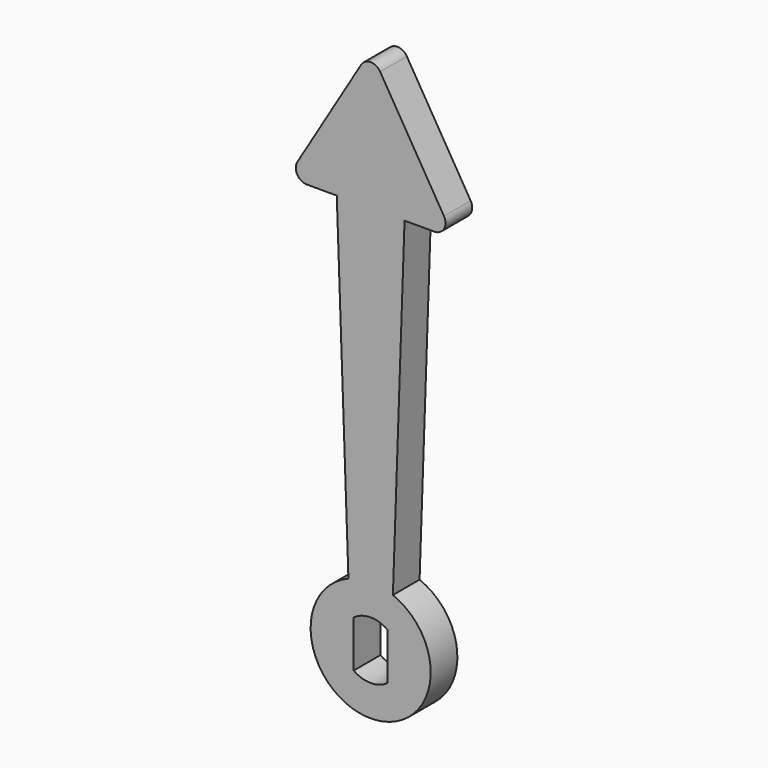
from build123d import *

# Parameters (mm, degrees)
F0_R     = 5.4
F1_DEPTH = 3
F3_DEPTH = 3
F5_DEPTH = 3
F6_R     = 1


with BuildPart() as f1:
    # F0 (on Front) → F1 (new body)
    with BuildSketch(Plane.XZ):
        Circle(F0_R)
        with BuildLine():
            ThreePointArc((1.525, 2.105796), (2.315707, 1.182159), (2.6, 0))
            ThreePointArc((2.6, 0), (2.315707, -1.182159), (1.525, -2.105796))
            ThreePointArc((1.525, -2.105796), (0, -2.6), (-1.525, -2.105796))
            ThreePointArc((-1.525, -2.105796), (-2.6, 0), (-1.525, 2.105796))
            ThreePointArc((-1.525, 2.105796), (0, 2.6), (1.525, 2.105796))
        make_face(mode=Mode.SUBTRACT)
        with BuildLine():
            Line((-1.525, -2.105796), (-1.525, 2.105796))
            ThreePointArc((-1.525, 2.105796), (-2.6, 0), (-1.525, -2.105796))
        make_face()
        with BuildLine():
            ThreePointArc((1.525, -2.105796), (2.315707, -1.182159), (2.6, 0))
            ThreePointArc((2.6, 0), (2.315707, 1.182159), (1.525, 2.105796))
            Line((1.525, 2.105796), (1.525, -2.105796))
        make_face()
    extrude(amount=F1_DEPTH)

    # F2 (on Front) → F3 (join, through all)
    with BuildSketch(Plane.XZ):
        Polygon((3.047065, 35), (0, 35), (-3.047065, 35), (-2, 5.015974), (0, 5.015974), (2, 5.015974), align=None)
    extrude(amount=F3_DEPTH)

    # F4 (on Front) → F5 (join, through all)
    with BuildSketch(Plane.XZ):
        Polygon((0, 47.5), (-7.5, 35), (7.5, 35), align=None)
    extrude(amount=F5_DEPTH)

    # F6
    f6_edges = [f1.edges().sort_by_distance(p)[0] for p in [
        (-7.5, -1.5, 35),
        (0, -1.5, 47.5),
        (7.5, -1.5, 35),
    ]]
    fillet(f6_edges, radius=F6_R)


solid = f1.part
